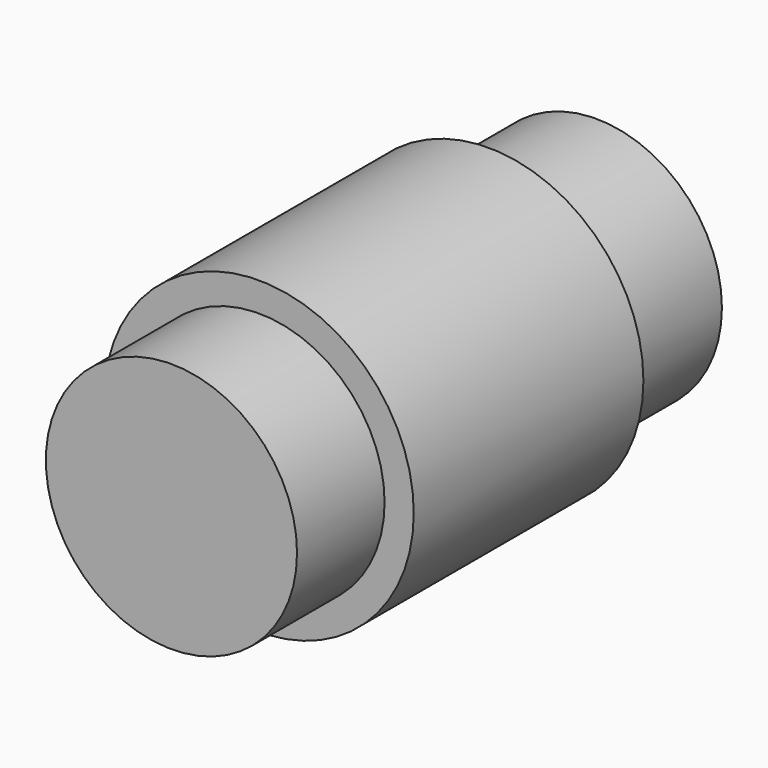
from build123d import *

# Parameters (mm, degrees)
F0_R     = 14
F1_DEPTH = 59.2
F3_START = 15
F2_R     = 17.25
F3_DEPTH = 32
F4_R     = 1.585
F5_DEPTH = 11
F6_W     = 4.3914923444
F6_H     = 18.9632624388
F7_DEPTH = 0.1


with BuildPart() as f1:
    # F0 (on Front) → F1 (new body)
    with BuildSketch(Plane.XZ):
        Circle(F0_R)
    extrude(amount=F1_DEPTH)

    # F2 (on Front) → F3 (join)
    with BuildSketch(Plane.XZ.offset(F3_START)):
        Circle(F2_R)
    extrude(amount=F3_DEPTH)

    # F4 (on Front) → F5 (join)
    with BuildSketch(Plane.XZ):
        Circle(F4_R)
    extrude(amount=-F5_DEPTH)

    # F6 (on Top) → F7 (join)
    with BuildSketch(Plane.XY):
        with Locations((-17.2895635478, -29.550164938)):
            Rectangle(F6_W, F6_H)
    extrude(amount=F7_DEPTH)


solid = f1.part
